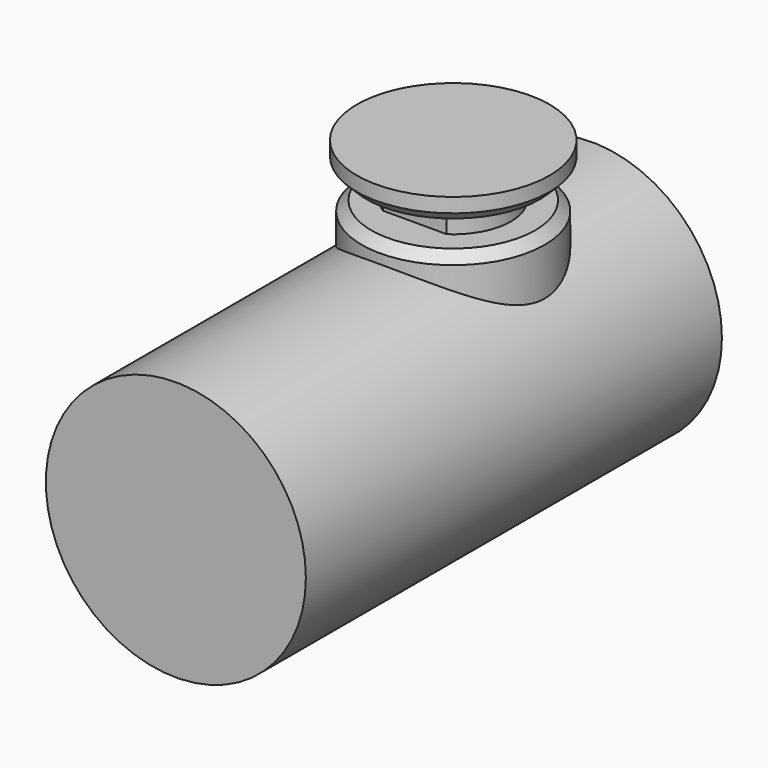
from build123d import *

# Parameters (mm, degrees)
F0_R     = 13.5
F1_DEPTH = 27
F3_R     = 9.5
F5_SIZE  = 1
F7_DEPTH = 3
F8_R     = 10
F9_DEPTH = 2.5
F10_SIZE = 1


with BuildPart() as f1:
    # F0 (on Front) → F1 (new body, symmetric)
    with BuildSketch(Plane.XZ):
        Circle(F0_R)
    extrude(amount=F1_DEPTH, both=True)

    # F3 (on offset) → F4 (join, up to the next surface of F1)
    with BuildSketch(Plane.XY.offset(15.5)):
        with Locations((0, 9)):
            Circle(F3_R)
    extrude(until=Until.NEXT, dir=(0, 0, -1))

    # F5
    f5_edges = [f1.edges().sort_by_distance(p)[0] for p in [
        (-9.5, 9, 15.5),
    ]]
    chamfer(f5_edges, length=F5_SIZE)

    # F6 (on face) → F7 (join)
    with BuildSketch(Plane.XY.offset(15.5)):
        with BuildLine():
            Line((3.3166247904, 14), (-3.3166247904, 14))
            ThreePointArc((-3.3166247904, 14), (-6, 9), (-3.3166247904, 4))
            Line((-3.3166247904, 4), (3.3166247904, 4))
            ThreePointArc((3.3166247904, 4), (6, 9), (3.3166247904, 14))
        make_face()
    extrude(amount=F7_DEPTH)

    # F8 (on face) → F9 (join)
    with BuildSketch(Plane.XY.offset(18.5)):
        with Locations((0, 9)):
            Circle(F8_R)
    extrude(amount=F9_DEPTH)

    # F10
    f10_edges = [f1.edges().sort_by_distance(p)[0] for p in [
        (-10, 9, 18.5),
    ]]
    chamfer(f10_edges, length=F10_SIZE)


solid = f1.part
